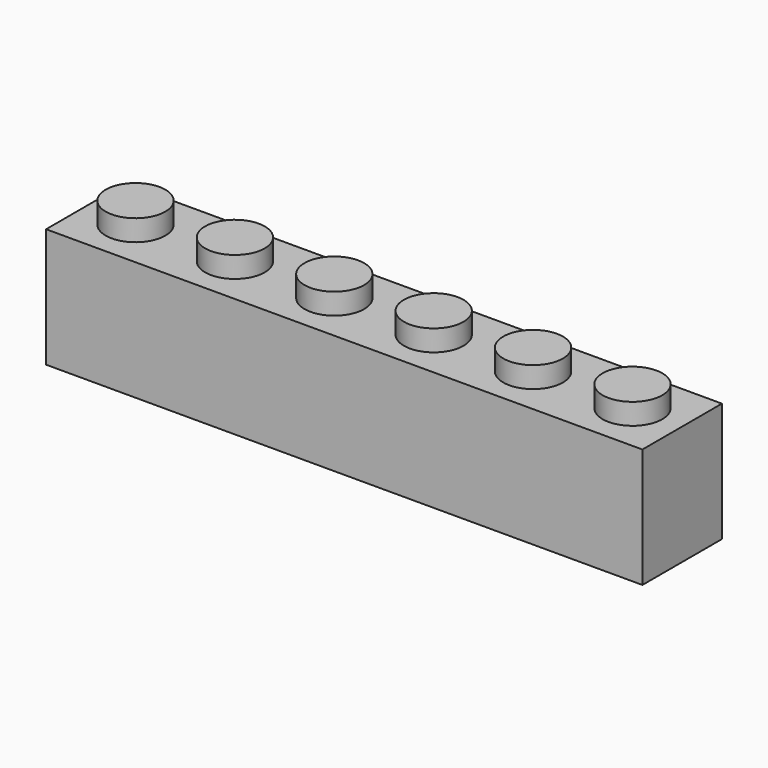
from build123d import *

# Parameters (mm, degrees)
F1_DEPTH  = 8
F3_W      = 8
F3_H      = 8
F3_R      = 2.4
F4_DEPTH  = 1.7
F5_R      = 2.4
F6_DEPTH  = 1.7
F13_W     = 22.9428485036
F13_H     = 31.0530802235
F14_DEPTH = 16.002


with BuildPart() as f1:
    # F0 (on Front) → F1 (new body)
    with BuildSketch(Plane.XZ):
        Polygon((-2.4, 9.6), (-4, 9.6), (-4, 0), (4, 0), (4, 9.6), (2.4, 9.6), (2.4, 11.3), (-2.4, 11.3), align=None)
    extrude(amount=F1_DEPTH)

    # F3 (on plane+point) → F4 (cut, through all)
    with BuildSketch(Plane.XY.offset(11.3)):
        with Locations((0, -4)):
            Rectangle(F3_W, F3_H)
        with Locations((0, -4)):
            Circle(F3_R, mode=Mode.SUBTRACT)
    extrude(amount=-F4_DEPTH, mode=Mode.SUBTRACT)

    # F5 (on Top) → F6 (cut)
    with BuildSketch(Plane.XY):
        with Locations((0, -4)):
            Circle(F5_R)
    extrude(amount=F6_DEPTH, mode=Mode.SUBTRACT)

    # F8: F1 across plane


with BuildPart() as f1_1:
    add(f1.part)
    add(f1.part.mirror(Plane.YZ.offset(4)))

    # F10: F1 across plane


with BuildPart() as f1_2:
    add(f1_1.part)
    add(f1_1.part.mirror(Plane.YZ.offset(12)))

    # F12: F1 across plane


with BuildPart() as f1_3:
    add(f1_2.part)
    add(f1_2.part.mirror(Plane.YZ.offset(28)))

    # F13 (on face) → F14 (cut)
    with BuildSketch(Plane.YZ.offset(60)):
        with Locations((-3.3198129386, 4.1634761728)):
            Rectangle(F13_W, F13_H)
    extrude(amount=-F14_DEPTH, mode=Mode.SUBTRACT)


solid = f1_3.part
